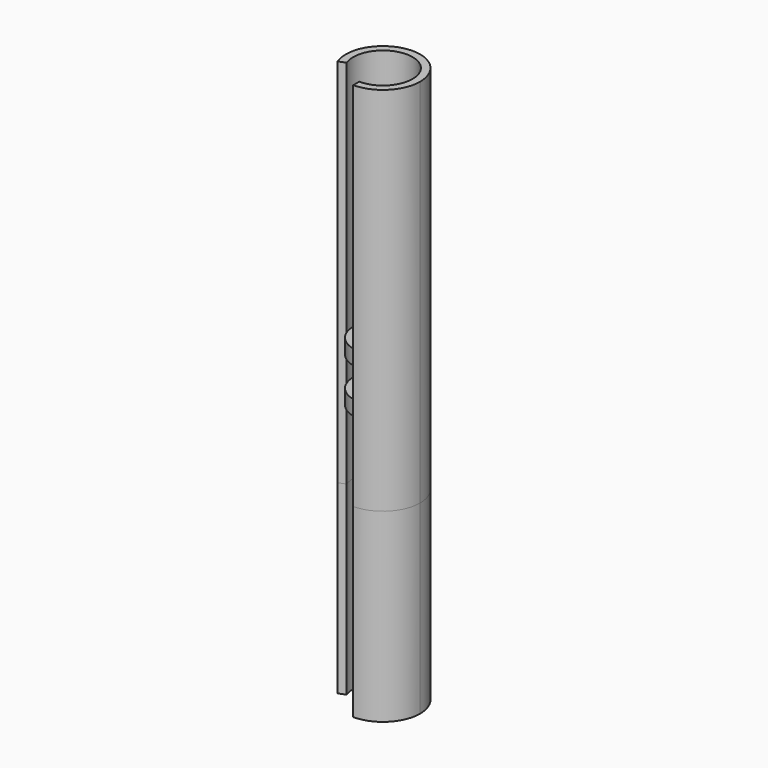
from build123d import *

# Parameters (mm, degrees)
F1_DEPTH = 50
F2_START = 16
F2_DEPTH = 2
F3_START = 10
F3_DEPTH = 2
F4_DEPTH = 25


with BuildPart() as f1:
    # F0 (on Top) → F1 (new body)
    with BuildSketch(Plane.XY):
        with BuildLine():
            ThreePointArc((-3.7313016861, -1.4427016245), (-0.7338010135, 3.9326246099), (4.0005, 0))
            ThreePointArc((4.0005, 0), (2.8287806781, -2.8287806781), (0, -4.0005))
            Line((0, -4.0005), (0, -5.0038))
            ThreePointArc((0, -5.0038), (3.5382209117, -3.5382209117), (5.0038, 0))
            ThreePointArc((5.0038, 0), (-0.9216629242, 4.9181858336), (-4.6642730222, -1.8117868569))
            Line((-4.6642730222, -1.8117868569), (-3.7313016861, -1.4427016245))
        make_face()
    extrude(amount=F1_DEPTH)

    # F0 (on Top) → F2 (join)
    with BuildSketch(Plane.XY.offset(F2_START)):
        with BuildLine():
            ThreePointArc((0, -4.0005), (2.8287806781, -2.8287806781), (4.0005, 0))
            ThreePointArc((4.0005, 0), (-0.7338010135, 3.9326246099), (-3.7313016861, -1.4427016245))
            ThreePointArc((-3.7313016861, -1.4427016245), (-2.2619098569, -3.2996612022), (0, -4.0005))
        make_face()
    extrude(amount=F2_DEPTH)

    # F0 (on Top) → F3 (join)
    with BuildSketch(Plane.XY.offset(F3_START)):
        with BuildLine():
            ThreePointArc((0, -4.0005), (2.8287806781, -2.8287806781), (4.0005, 0))
            ThreePointArc((4.0005, 0), (-0.7338010135, 3.9326246099), (-3.7313016861, -1.4427016245))
            ThreePointArc((-3.7313016861, -1.4427016245), (-2.2619098569, -3.2996612022), (0, -4.0005))
        make_face()
    extrude(amount=F3_DEPTH)

    # F0 (on Top) → F4 (join)
    with BuildSketch(Plane.XY):
        with BuildLine():
            ThreePointArc((-3.7313016861, -1.4427016245), (-0.7338010135, 3.9326246099), (4.0005, 0))
            ThreePointArc((4.0005, 0), (2.8287806781, -2.8287806781), (0, -4.0005))
            Line((0, -4.0005), (0, -5.0038))
            ThreePointArc((0, -5.0038), (3.5382209117, -3.5382209117), (5.0038, 0))
            ThreePointArc((5.0038, 0), (-0.9216629242, 4.9181858336), (-4.6642730222, -1.8117868569))
            Line((-4.6642730222, -1.8117868569), (-3.7313016861, -1.4427016245))
        make_face()
    extrude(amount=-F4_DEPTH)


solid = f1.part
